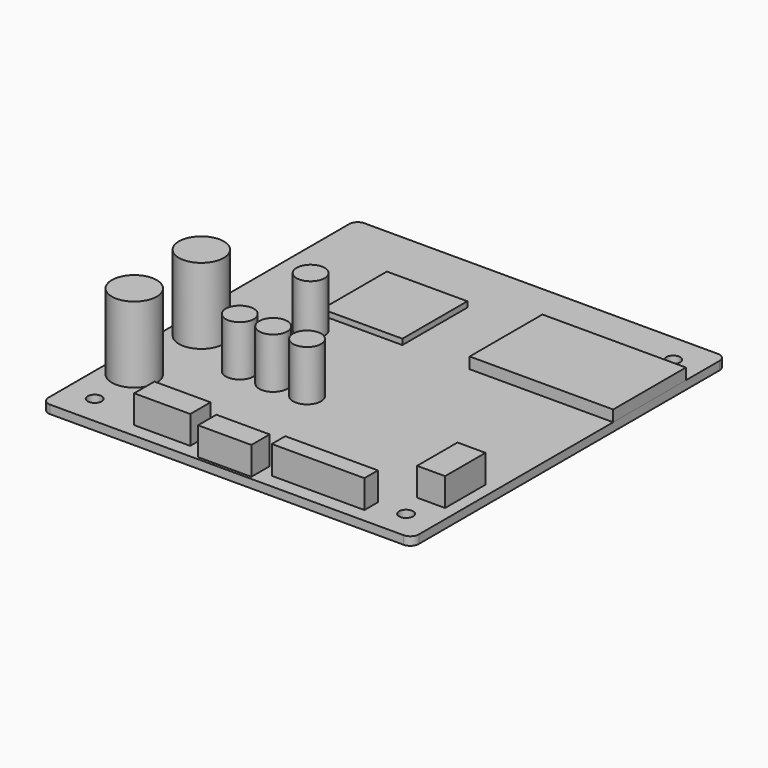
from build123d import *

# Parameters (mm, degrees)
SKETCH_R      = 1.25
PAD_DEPTH     = 1.5
SKETCH001_R   = 4
PAD001_DEPTH  = 15
SKETCH002_W   = 14.327426
SKETCH002_H   = 14.462592
PAD002_DEPTH  = 1
SKETCH003_R   = 2.5
PAD003_DEPTH  = 9
SKETCH004_W   = 10
SKETCH004_H   = 4.51462
SKETCH004_W_2 = 9.5
SKETCH004_H_2 = 4.078131
SKETCH004_W_3 = 16.5
SKETCH004_H_3 = 3
PAD004_DEPTH  = 5
SKETCH005_W   = 25.572927
SKETCH005_H   = 16.2
PAD005_DEPTH  = 2
SKETCH006_W   = 4.984948
SKETCH006_H   = 9
PAD006_DEPTH  = 5


with BuildPart() as part:
    # Sketch → Pad (new body)
    with BuildSketch(Plane.XY):
        with BuildLine():
            ThreePointArc((-31.5, 35), (-32.56066, 34.56066), (-33, 33.5))
            Line((-33, -33.5), (-33, 33.5))
            ThreePointArc((-33, -33.5), (-32.56066, -34.56066), (-31.5, -35))
            Line((31.5, -35), (-31.5, -35))
            ThreePointArc((31.5, -35), (32.56066, -34.56066), (33, -33.5))
            Line((33, 33.5), (33, -33.5))
            ThreePointArc((33, 33.5), (32.56066, 34.56066), (31.5, 35))
            Line((-31.5, 35), (31.5, 35))
        make_face()
        with Locations((27.75, 29.75)):
            Circle(SKETCH_R, mode=Mode.SUBTRACT)
        with Locations((-27.75, -29.75)):
            Circle(SKETCH_R, mode=Mode.SUBTRACT)
        with Locations((27.75, -29.75)):
            Circle(SKETCH_R, mode=Mode.SUBTRACT)
    extrude(amount=PAD_DEPTH)

    # Sketch001 → Pad001 (join)
    with BuildSketch(Plane.XY):
        with Locations((-28.04706, -5.627252)):
            Circle(SKETCH001_R)
        with Locations((-28.04706, -20.567915)):
            Circle(SKETCH001_R)
    extrude(amount=PAD001_DEPTH)

    # Sketch002 (on DatumPlane) → Pad002 (join)
    with BuildSketch(Plane.XY.offset(1.5)):
        with Locations((-11.592608, 16.860297)):
            Rectangle(SKETCH002_W, SKETCH002_H)
    extrude(amount=PAD002_DEPTH)

    # Sketch003 (on DatumPlane) → Pad003 (join)
    with BuildSketch(Plane.XY.offset(1.5)):
        with Locations((-17.169403, 5.115318)):
            Circle(SKETCH003_R)
        with Locations((-17.169403, -10.668831)):
            Circle(SKETCH003_R)
        with Locations((-11.212177, -10.668831)):
            Circle(SKETCH003_R)
        with Locations((-5.171722, -10.668831)):
            Circle(SKETCH003_R)
    extrude(amount=PAD003_DEPTH)

    # Sketch004 (on DatumPlane) → Pad004 (join)
    with BuildSketch(Plane.XY.offset(1.5)):
        with Locations((-13.5, -30.268985)):
            Rectangle(SKETCH004_W, SKETCH004_H)
        with Locations((-0.789347, -32.460935)):
            Rectangle(SKETCH004_W_2, SKETCH004_H_2)
        with Locations((14.25, -30.987146)):
            Rectangle(SKETCH004_W_3, SKETCH004_H_3)
    extrude(amount=PAD004_DEPTH)

    # Sketch005 (on Face5 of Pad004) → Pad005 (join)
    with BuildSketch(Plane.XY.offset(1.5)):
        with Locations((20.213537, 17.9)):
            Rectangle(SKETCH005_W, SKETCH005_H)
    extrude(amount=PAD005_DEPTH)

    # Sketch006 (on DatumPlane) → Pad006 (join)
    with BuildSketch(Plane.XY.offset(1.5)):
        with Locations((28.390791, -20.5)):
            Rectangle(SKETCH006_W, SKETCH006_H)
    extrude(amount=PAD006_DEPTH)


solid = part.part
